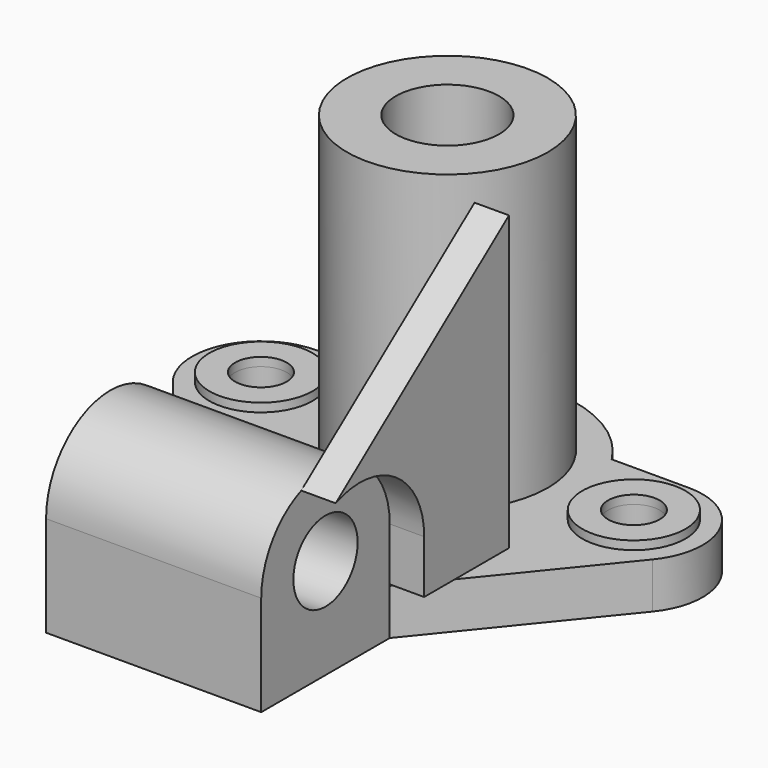
from build123d import *

# Parameters (mm, degrees)
F0_W      = 75
F0_H      = 56
F1_DEPTH  = 35
F3_DEPTH  = 16
F4_R      = 18
F4_R_2    = 9
F5_DEPTH  = 3
F6_DEPTH  = 16
F7_R      = 35
F7_R_2    = 18
F8_DEPTH  = 103
F9_DEPTH  = 16
F11_DEPTH = 75
F12_R     = 14
F13_DEPTH = 75
F15_DEPTH = 12


with BuildPart() as f1:
    # F0 (on Top) → F1 (new body)
    with BuildSketch(Plane.XY):
        with Locations((4.455591552, 10.561077265)):
            Rectangle(F0_W, F0_H)
    extrude(amount=F1_DEPTH)

    # F10 (on face) → F11 (join)
    with BuildSketch(Plane.YZ.offset(41.955591552)):
        with BuildLine():
            ThreePointArc((38.561077265, 35), (10.561077265, 63), (-17.438922735, 35))
            Line((-17.438922735, 35), (38.561077265, 35))
        make_face()
    extrude(amount=-F11_DEPTH)

    # F12 (on face) → F13 (cut, through all)
    with BuildSketch(Plane.YZ.offset(41.955591552)):
        with Locations((10.561077265, 35)):
            Circle(F12_R)
    extrude(amount=-F13_DEPTH, mode=Mode.SUBTRACT)


with BuildPart() as f3:
    # F2 (on face) → F3 (new body)
    with BuildSketch(Plane(origin=(0, 0, 0), x_dir=(1, 0, 0), z_dir=(0, 0, -1))):
        with BuildLine():
            Line((-60.544408448, -134.561077265), (-33.6101410694, -134.561077265))
            ThreePointArc((-33.6101410694, -134.561077265), (4.455591552, -155.561077265), (42.5213241733, -134.561077265))
            Line((42.5213241733, -134.561077265), (69.455591552, -134.561077265))
            ThreePointArc((69.455591552, -134.561077265), (91.121899563, -120.8844050798), (88.0946248964, -95.4420020293))
            Line((88.0946248964, -95.4420020293), (41.955591552, -38.561077265))
            Line((41.955591552, -38.561077265), (-33.044408448, -38.561077265))
            Line((-33.044408448, -38.561077265), (-79.1834417925, -95.4420020293))
            ThreePointArc((-79.1834417925, -95.4420020293), (-82.2107164591, -120.8844050798), (-60.544408448, -134.561077265))
        make_face()
    extrude(amount=-F3_DEPTH)

    # F4 (on face) → F5 (join)
    with BuildSketch(Plane.XY.offset(16)):
        with Locations((-60.544408448, 110.561077265)):
            Circle(F4_R)
        with Locations((-60.544408448, 110.561077265)):
            Circle(F4_R_2, mode=Mode.SUBTRACT)
        with Locations((69.455591552, 110.561077265)):
            Circle(F4_R)
        with Locations((69.455591552, 110.561077265)):
            Circle(F4_R_2, mode=Mode.SUBTRACT)
    extrude(amount=F5_DEPTH)

    # F6 (cut, through all): faces of the model
    f6_faces = [f3.faces().sort_by_distance(p)[0] for p in [
        (-60.544408448, 110.561077265, 16),
        (69.455591552, 110.561077265, 16),
    ]]
    extrude(f6_faces, amount=-F6_DEPTH, mode=Mode.SUBTRACT)

    # F7 (on face) → F8 (join)
    with BuildSketch(Plane.XY.offset(16)):
        with Locations((4.455591552, 110.561077265)):
            Circle(F7_R)
        with Locations((4.455591552, 110.561077265)):
            Circle(F7_R_2, mode=Mode.SUBTRACT)
    extrude(amount=F8_DEPTH)

    # F9 (cut, through all): a face of the model
    f9_faces = [f3.faces().sort_by_distance(p)[0] for p in [
        (4.455591552, 110.561077265, 16),
    ]]
    extrude(f9_faces, amount=-F9_DEPTH, mode=Mode.SUBTRACT)


with BuildPart() as f15:
    # F14 (on face) → F15 (new body)
    with BuildSketch(Plane.YZ.offset(41.955591552)):
        with BuildLine():
            Line((75.5127221346, 118.5893565416), (0, 60.9319040373))
            ThreePointArc((0, 60.9319040373), (26.1862146497, 58.2347817229), (38.561077265, 35))
            Line((38.561077265, 35), (38.561077265, 16.485825181))
            Line((38.561077265, 16.485825181), (75.5127221346, 16.485825181))
            Line((75.5127221346, 16.485825181), (75.5127221346, 118.5893565416))
        make_face()
    extrude(amount=F15_DEPTH)


solid = Compound([f1.part, f3.part, f15.part])
